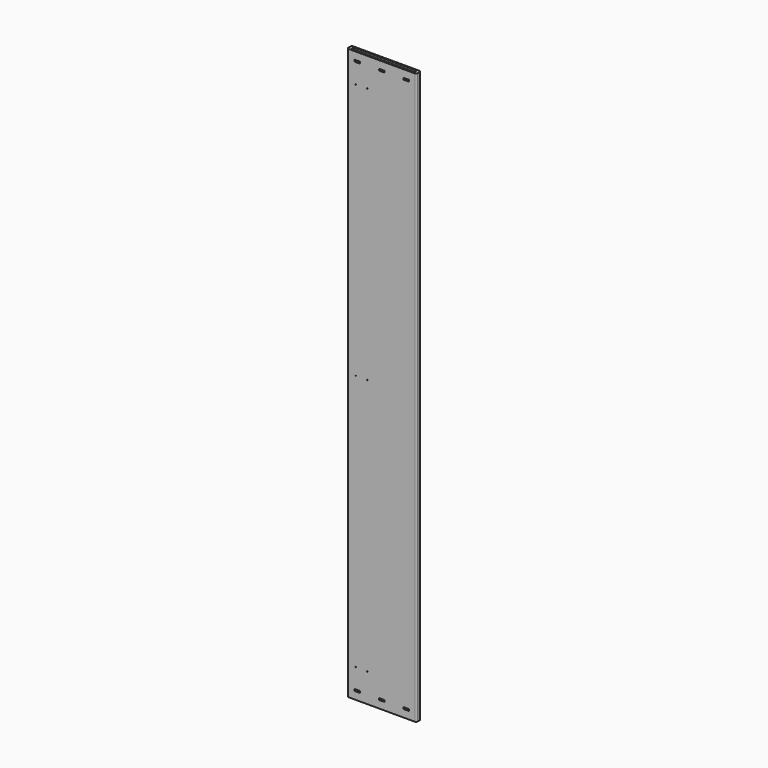
from build123d import *

# Parameters (mm, degrees)
F0_W      = 240
F0_H      = 1980
F1_DEPTH  = 20
F2_R      = 1.5
F3_DEPTH  = 10
F5_DEPTH  = 20
F7_DEPTH  = 10
F8_R      = 5
F9_R      = 3.1
F9_R_2    = 3.2
F10_DEPTH = 30
F11_R     = 3.1
F12_DEPTH = 30
F13_W     = 20
F13_H     = 6
F13_W_2   = 19.9
F14_DEPTH = 17


with BuildPart() as f1:
    # F0 (on Front) → F1 (new body)
    with BuildSketch(Plane.XZ):
        Rectangle(F0_W, F0_H)
    extrude(amount=F1_DEPTH)

    # F2 (on face) → F3 (cut)
    with BuildSketch(Plane.XZ.offset(20)):
        with Locations((-50, 890)):
            Circle(F2_R)
        with Locations((-90, 890)):
            Circle(F2_R)
        with Locations((-90, 0)):
            Circle(F2_R)
        with Locations((-50, 0)):
            Circle(F2_R)
        with Locations((-50, -890)):
            Circle(F2_R)
        with Locations((-90, -890)):
            Circle(F2_R)
    extrude(amount=-F3_DEPTH, mode=Mode.SUBTRACT)

    # F4 (on face) → F5 (cut)
    with BuildSketch(Plane.XY.offset(990)):
        with BuildLine():
            Line((105, -5), (-105, -5))
            ThreePointArc((-105, -5), (-110, -10), (-105, -15))
            Line((-105, -15), (105, -15))
            ThreePointArc((105, -15), (110, -10), (105, -5))
        make_face()
    extrude(amount=-F5_DEPTH, mode=Mode.SUBTRACT)

    # F6 (on face) → F7 (cut)
    with BuildSketch(Plane(origin=(0, 0, -990), x_dir=(1, 0, 0), z_dir=(0, 0, -1))):
        with BuildLine():
            Line((-103.037506, 5), (103.037506, 5))
            ThreePointArc((103.037506, 5), (108.037506, 10), (103.037506, 15))
            Line((103.037506, 15), (-103.037506, 15))
            ThreePointArc((-103.037506, 15), (-108.037506, 10), (-103.037506, 5))
        make_face()
    extrude(amount=-F7_DEPTH, mode=Mode.SUBTRACT)

    # F8
    f8_edges = [f1.edges().sort_by_distance(p)[0] for p in [
        (120, 0, 0),
        (120, -20, 0),
        (-120, -20, 0),
        (-120, 0, 0),
    ]]
    fillet(f8_edges, radius=F8_R)

    # F9 (on face) → F10 (cut)
    with BuildSketch(Plane.XY.offset(970)):
        with Locations((85, -10)):
            Circle(F9_R)
        with Locations((0, -10)):
            Circle(F9_R_2)
        with Locations((-85, -10)):
            Circle(F9_R)
    extrude(amount=-F10_DEPTH, mode=Mode.SUBTRACT)

    # F11 (on face) → F12 (cut)
    with BuildSketch(Plane(origin=(0, 0, -980), x_dir=(1, 0, 0), z_dir=(0, 0, -1))):
        with Locations((83.037506, 10)):
            Circle(F11_R)
        with Locations((1.962494, 10)):
            Circle(F11_R)
        with Locations((-83.037506, 10)):
            Circle(F11_R)
    extrude(amount=-F12_DEPTH, mode=Mode.SUBTRACT)

    # F13 (on face) → F14 (cut)
    with BuildSketch(Plane.XZ.offset(20)):
        with Locations((85, 961)):
            Rectangle(F13_W, F13_H)
        with Locations((-0.05, 961)):
            Rectangle(F13_W_2, F13_H)
        with Locations((-85, 961)):
            Rectangle(F13_W, F13_H)
        with Locations((-85, -961)):
            Rectangle(F13_W, F13_H)
        with Locations((-0.05, -961)):
            Rectangle(F13_W_2, F13_H)
        with Locations((85, -961)):
            Rectangle(F13_W, F13_H)
    extrude(amount=-F14_DEPTH, mode=Mode.SUBTRACT)


solid = f1.part
